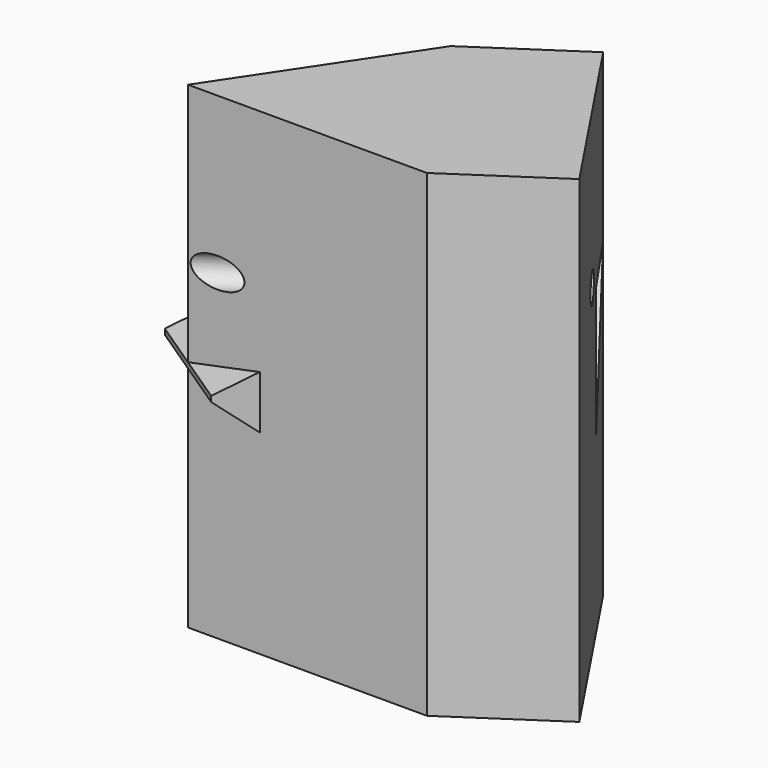
from build123d import *

# Parameters (mm, degrees)
F1_DEPTH = 50.8
F3_DEPTH = 12.7
F4_W     = 45.7905011984
F4_H     = 101.6
F4_R     = 12.307725437
F4_R_2   = 8.8836456499
F5_DEPTH = 25.4
F7_D     = 6.35


with BuildPart() as f1:
    # F0 (on Top) → F1 (new body, symmetric)
    with BuildSketch(Plane.XY):
        Polygon((25.4, -38.1), (0, 0), (-25.4, -38.1), align=None)
    extrude(amount=F1_DEPTH, both=True)

    # F2 (on face) → F3 (join, symmetric)
    with BuildSketch(Plane(origin=(0, 0, 0), x_dir=(-0.5547001962, -0.8320502943, 0), z_dir=(-0.8320502943, 0.5547001962, 0))):
        Polygon((45.7905011984, -1.1443360425), (0.0787186434, 15.7506404887), (8.4762908518, -33.2957603969), (45.7905011984, -2.2995244172), align=None)
    extrude(amount=F3_DEPTH, both=True)

    # F4 (on face) → F5 (join)
    with BuildSketch(Plane(origin=(0, 0, 0), x_dir=(-0.5547001962, 0.8320502943, 0), z_dir=(0.8320502943, 0.5547001962, 0))):
        with Locations((-22.8952505992, 0)):
            Rectangle(F4_W, F4_H)
        with Locations((-26.547158137, -29.2638558894)):
            Circle(F4_R, mode=Mode.SUBTRACT)
        with Locations((-24.961175397, -4.7561856918)):
            Circle(F4_R_2, mode=Mode.SUBTRACT)
        Polygon((-13.7583333333, -14.695818583), (-13.7583333333, 13.8239461095), (-0.2046684728, 15.7506404887), align=None, mode=Mode.SUBTRACT)
        with Locations((-26.547158137, -29.2638558894)):
            Circle(F4_R)
        with Locations((-24.961175397, -4.7561856918)):
            Circle(F4_R_2)
    extrude(amount=F5_DEPTH)

    # F7 (through all)
    with Locations(Plane(origin=(21.1340774762, 14.0893849841, 0), x_dir=(-0.5547001962, 0.8320502943, 0), z_dir=(0.8320502943, 0.5547001962, 0))):
        with Locations((-21.0971944034, 17.6605209708)):
            Hole(F7_D / 2)


solid = f1.part
